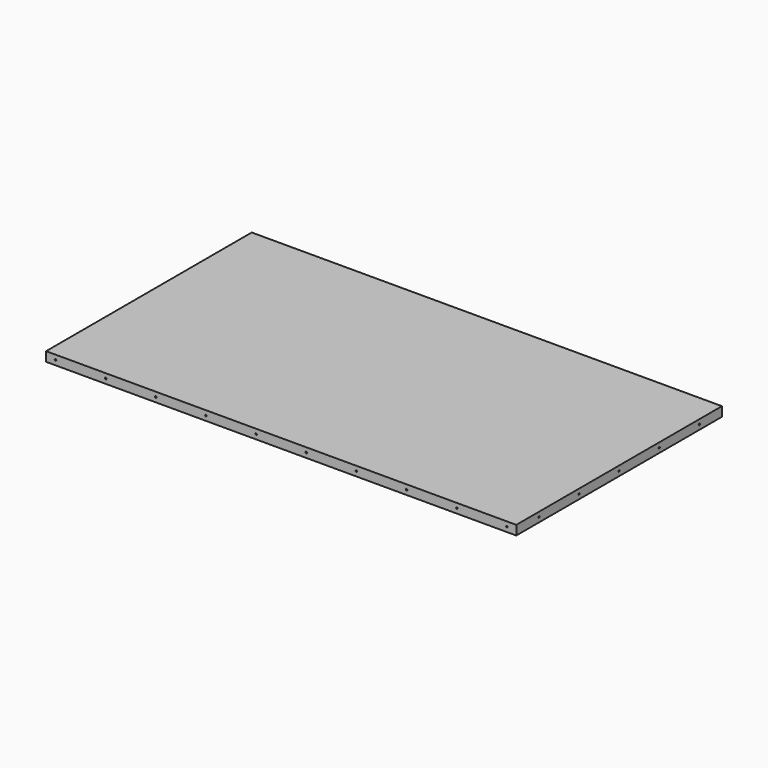
from build123d import *

# Parameters (mm, degrees)
F0_W     = 952.5
F0_H     = 520.7
F1_DEPTH = 19.05
F2_R     = 1.5875
F3_DEPTH = 952.501
F4_R     = 1.5875
F5_DEPTH = 520.701


with BuildPart() as f1:
    # F0 (on Top) → F1 (new body)
    with BuildSketch(Plane.XY):
        with Locations((476.25, -260.35)):
            Rectangle(F0_W, F0_H)
    extrude(amount=-F1_DEPTH)

    # F2 (on Right) → F3 (cut, through all)
    with BuildSketch(Plane.YZ):
        with Locations((-463.55, -9.525)):
            Circle(F2_R)
        with Locations((-361.95, -9.525)):
            Circle(F2_R)
        with Locations((-260.35, -9.525)):
            Circle(F2_R)
        with Locations((-158.75, -9.525)):
            Circle(F2_R)
        with Locations((-57.15, -9.525)):
            Circle(F2_R)
    extrude(amount=F3_DEPTH, mode=Mode.SUBTRACT)

    # F4 (on Front) → F5 (cut, through all)
    with BuildSketch(Plane.XZ):
        with Locations((19.05, -9.525)):
            Circle(F4_R)
        with Locations((120.65, -9.525)):
            Circle(F4_R)
        with Locations((222.25, -9.525)):
            Circle(F4_R)
        with Locations((323.85, -9.525)):
            Circle(F4_R)
        with Locations((425.45, -9.525)):
            Circle(F4_R)
        with Locations((527.05, -9.525)):
            Circle(F4_R)
        with Locations((628.65, -9.525)):
            Circle(F4_R)
        with Locations((730.25, -9.525)):
            Circle(F4_R)
        with Locations((831.85, -9.525)):
            Circle(F4_R)
        with Locations((933.45, -9.525)):
            Circle(F4_R)
    extrude(amount=F5_DEPTH, mode=Mode.SUBTRACT)


solid = f1.part
